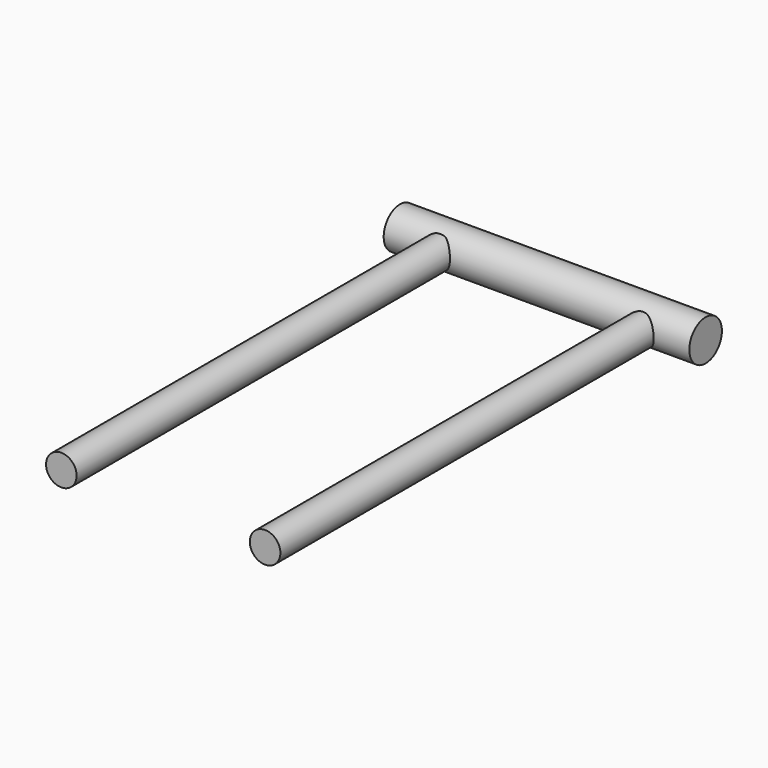
from build123d import *

# Parameters (mm, degrees)
F0_R     = 19.05
F1_DEPTH = 590.55
F2_R     = 25.4
F3_DEPTH = 190.5


with BuildPart() as f1:
    # F0 (on Front) → F1 (new body)
    with BuildSketch(Plane.XZ):
        with Locations((-127, 1.097297)):
            Circle(F0_R)
        with Locations((127, -1.097297)):
            Circle(F0_R)
    extrude(amount=F1_DEPTH)


with BuildPart() as f3:
    # F2 (on Right) → F3 (new body, symmetric)
    with BuildSketch(Plane.YZ):
        with Locations((16.51, 0)):
            Circle(F2_R)
    extrude(amount=F3_DEPTH, both=True)


solid = Compound([f1.part, f3.part])
